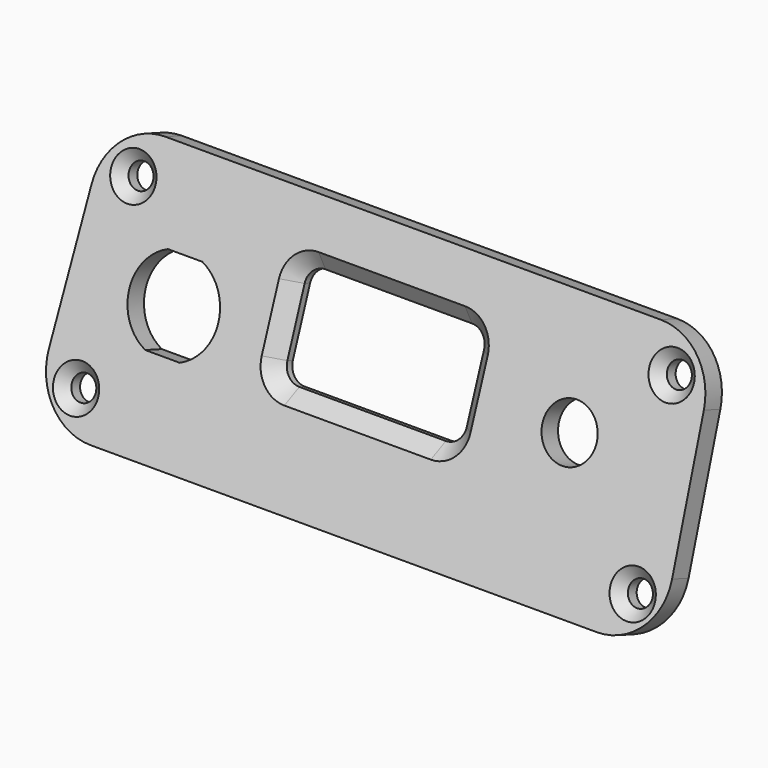
from build123d import *

# Parameters (mm, degrees)
SKETCH033_R             = 1.65
SKETCH033_R_2           = 3.7
PAD001_DEPTH            = 3
CHAMFER001_SIZE         = 2
CHAMFER002_SIZE         = 1.4
SKETCH035_R             = 1.5
POCKET009_DEPTH         = 1.5
BODY005_PLACEMENT_ANGLE = 340


with BuildPart() as part:
    # Sketch033 → Pad001 (new body)
    with BuildSketch(Plane.XZ):
        with BuildLine():
            Line((-33.806498, 37.4), (33.806497, 37.4))
            ThreePointArc((41.8, 29.722351), (39.348211, 35.169697), (33.806497, 37.4))
            Line((41.8, 29.722351), (42.55, 11.122345))
            ThreePointArc((34.556497, 2.8), (40.326192, 5.258284), (42.55, 11.122345))
            Line((34.556497, 2.8), (-34.556497, 2.8))
            ThreePointArc((-42.55, 11.122345), (-40.326192, 5.258284), (-34.556497, 2.8))
            Line((-42.55, 11.122345), (-41.8, 29.722351))
            ThreePointArc((-33.806498, 37.4), (-39.348211, 35.169697), (-41.8, 29.722351))
        make_face()
        with Locations((-36.75, 32.1)):
            Circle(SKETCH033_R, mode=Mode.SUBTRACT)
        with Locations((36.75, 32.1)):
            Circle(SKETCH033_R, mode=Mode.SUBTRACT)
        with Locations((-38, 8.1)):
            Circle(SKETCH033_R, mode=Mode.SUBTRACT)
        with Locations((38, 8.1)):
            Circle(SKETCH033_R, mode=Mode.SUBTRACT)
        with Locations((25.5, 22.3)):
            Circle(SKETCH033_R_2, mode=Mode.SUBTRACT)
        with BuildLine():
            Line((-11.25, 29.35), (8.75, 29.35))
            ThreePointArc((11, 27.1), (10.34099, 28.69099), (8.75, 29.35))
            Line((11, 27.1), (11, 18.5))
            ThreePointArc((8.75, 16.25), (10.34099, 16.90901), (11, 18.5))
            Line((8.75, 16.25), (-11.25, 16.25))
            ThreePointArc((-13.5, 18.5), (-12.84099, 16.90901), (-11.25, 16.25))
            Line((-13.5, 18.5), (-13.5, 27.1))
            ThreePointArc((-11.25, 29.35), (-12.84099, 28.69099), (-13.5, 27.1))
        make_face(mode=Mode.SUBTRACT)
        with BuildLine():
            Line((-30.35, 25.929165), (-25.65, 25.929165))
            ThreePointArc((-25.65, 14.670835), (-21.9, 20.3), (-25.65, 25.929165))
            Line((-30.35, 14.670835), (-25.65, 14.670835))
            ThreePointArc((-30.35, 25.929165), (-34.1, 20.3), (-30.35, 14.670835))
        make_face(mode=Mode.SUBTRACT)
    extrude(amount=PAD001_DEPTH)

    # Chamfer001
    chamfer001_edges = [part.edges().sort_by_distance(p)[0] for p in [
        (-1.25, -3, 29.35),
    ]]
    chamfer(chamfer001_edges, length=CHAMFER001_SIZE)

    # Chamfer002
    chamfer002_edges = [part.edges().sort_by_distance(p)[0] for p in [
        (-38.4, -3, 32.1),
        (-39.65, -3, 8.1),
        (35.1, -3, 32.1),
        (36.35, -3, 8.1),
    ]]
    chamfer(chamfer002_edges, length=CHAMFER002_SIZE)

    # Sketch035 → Pocket009 (cut)
    with BuildSketch(Plane.XZ):
        with Locations((25.5, 29.3)):
            Circle(SKETCH035_R)
    extrude(amount=POCKET009_DEPTH, mode=Mode.SUBTRACT)


with BuildPart() as part_1:
    # Body005 placement: moved
    add(part.part.moved(Location((0, -38, 0))).rotate(Axis((0, -38, 0), (1, 0, 0)), BODY005_PLACEMENT_ANGLE))


solid = part_1.part
